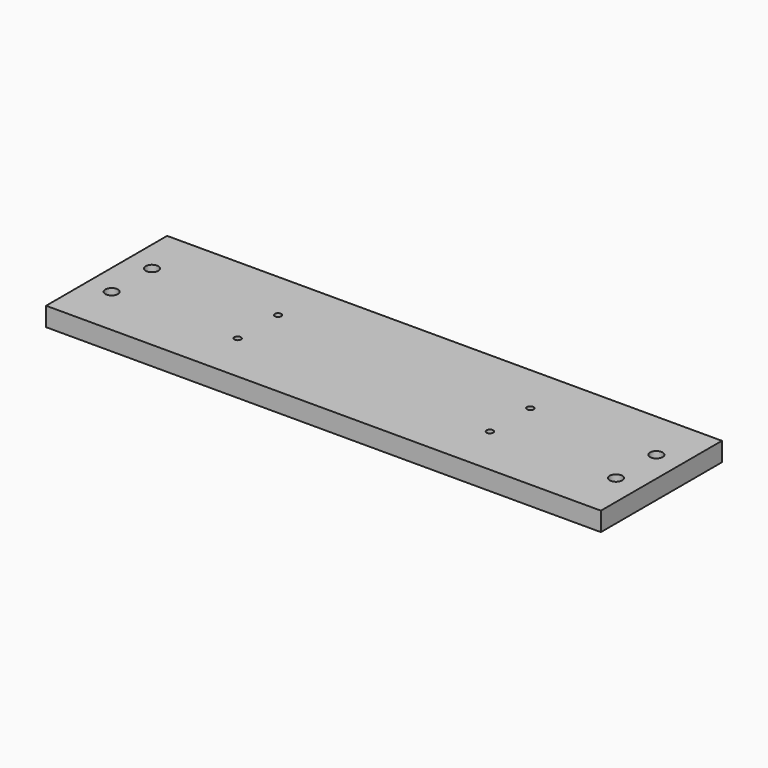
from build123d import *

# Parameters (mm, degrees)
F0_W     = 11
F0_H     = 3
F0_R     = 0.125
F0_R_2   = 0.065
F1_DEPTH = 0.1875


with BuildPart() as f1:
    # F0 (on Top) → F1 (new body, symmetric)
    with BuildSketch(Plane.XY):
        Rectangle(F0_W, F0_H)
        with Locations((-5, -0.5)):
            Circle(F0_R, mode=Mode.SUBTRACT)
        with Locations((-2.5, -0.5)):
            Circle(F0_R_2, mode=Mode.SUBTRACT)
        with Locations((2.5, -0.5)):
            Circle(F0_R_2, mode=Mode.SUBTRACT)
        with Locations((5, -0.5)):
            Circle(F0_R, mode=Mode.SUBTRACT)
        with Locations((-5, 0.5)):
            Circle(F0_R, mode=Mode.SUBTRACT)
        with Locations((-2.5, 0.5)):
            Circle(F0_R_2, mode=Mode.SUBTRACT)
        with Locations((2.5, 0.5)):
            Circle(F0_R_2, mode=Mode.SUBTRACT)
        with Locations((5, 0.5)):
            Circle(F0_R, mode=Mode.SUBTRACT)
    extrude(amount=F1_DEPTH, both=True)


solid = f1.part
